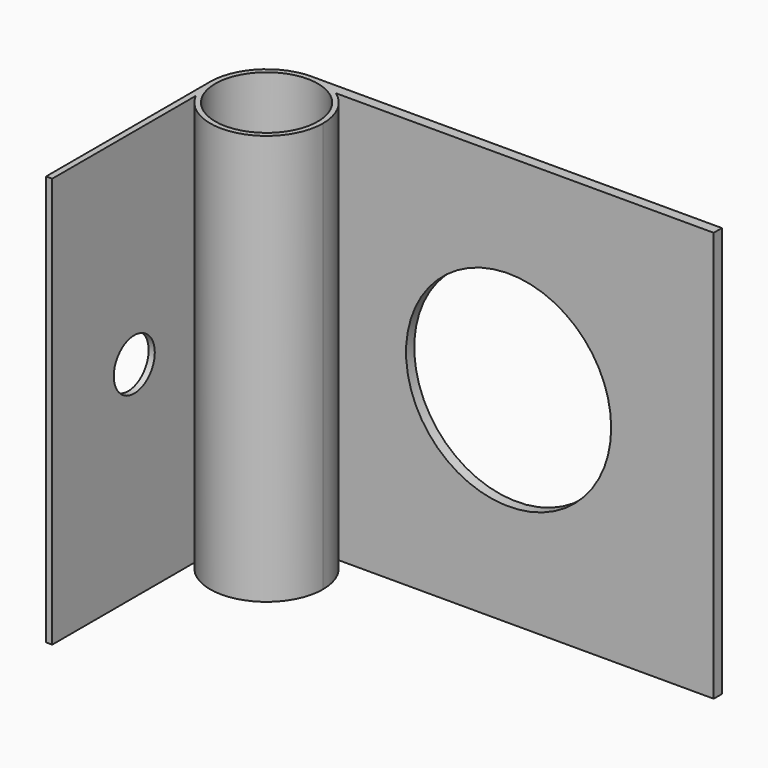
from build123d import *

# Parameters (mm, degrees)
F1_DEPTH = 25.4
F3_D     = 3.175
F5_D     = 12.7
F7_D     = 6.35


with BuildPart() as f1:
    # F0 (on Top) → F1 (new body)
    with BuildSketch(Plane.XY):
        with BuildLine():
            ThreePointArc((-3.1115, -1.586229), (0.815672, -3.395914), (3.4925, 0))
            ThreePointArc((3.4925, 0), (3.099247, 1.61004), (2.008046, 2.8575))
            ThreePointArc((2.008046, 2.8575), (1.053028, 3.329968), (0, 3.4925))
            ThreePointArc((0, 3.4925), (-2.46957, 2.46957), (-3.4925, 0))
            ThreePointArc((-3.4925, 0), (-3.395914, -0.815672), (-3.1115, -1.586229))
        make_face()
        with BuildLine():
            ThreePointArc((0, 3.4925), (1.053028, 3.329968), (2.008046, 2.8575))
            Line((2.008046, 2.8575), (25.4, 2.8575))
            Line((25.4, 2.8575), (25.4, 3.4925))
            Line((25.4, 3.4925), (0, 3.4925))
        make_face()
        with BuildLine():
            Line((-3.1115, -12.7), (-3.1115, -1.586229))
            ThreePointArc((-3.1115, -1.586229), (-3.395914, -0.815672), (-3.4925, 0))
            Line((-3.4925, 0), (-3.4925, -12.7))
            Line((-3.4925, -12.7), (-3.1115, -12.7))
        make_face()
    extrude(amount=F1_DEPTH)

    # F3 (through all)
    with Locations(Plane(origin=(-3.4925, 0, 0), x_dir=(0, -1, 0), z_dir=(-1, 0, 0))):
        with Locations((6.35, 12.7)):
            Hole(F3_D / 2)

    # F5 (through all)
    with Locations(Plane(origin=(0, 3.4925, 0), x_dir=(-1, 0, 0), z_dir=(0, 1, 0))):
        with Locations((-12.7, 12.7)):
            Hole(F5_D / 2)

    # F7 (through all)
    with Locations(Plane.XY.offset(25.4)):
        with Locations((0, 0)):
            Hole(F7_D / 2)


solid = f1.part
